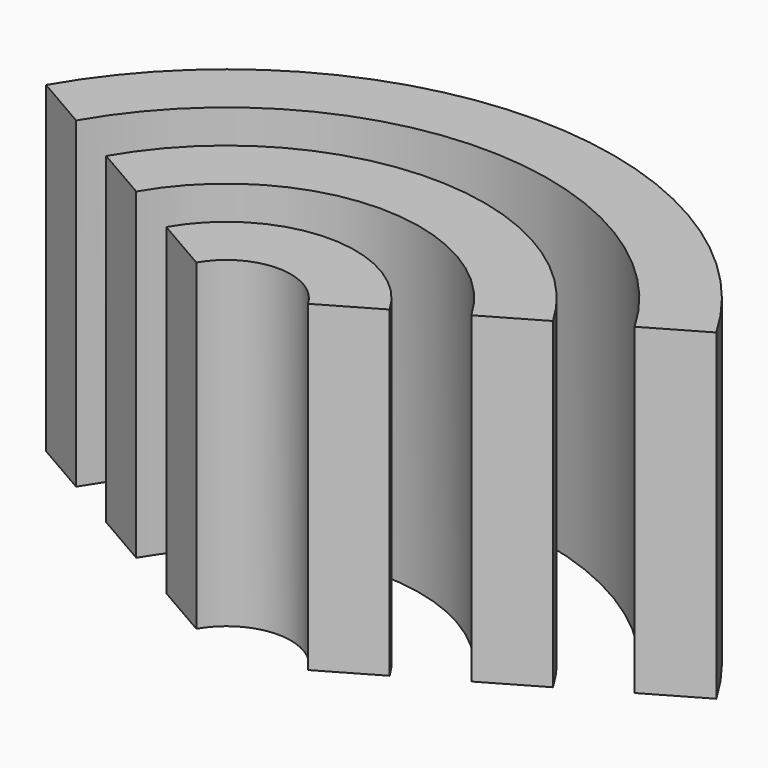
from build123d import *

# Parameters (mm, degrees)
CYLINDER020_W               = 6
CYLINDER020_H               = 10
CYLINDER020_ANGLE           = 120
CYLINDER020_PLACEMENT_ANGLE = 30
CYLINDER015_W               = 8
CYLINDER015_H               = 10
CYLINDER015_ANGLE           = 120
CYLINDER015_PLACEMENT_ANGLE = 30
CYLINDER018_W               = 2
CYLINDER018_H               = 10
CYLINDER018_ANGLE           = 120
CYLINDER018_PLACEMENT_ANGLE = 30
CYLINDER016_W               = 4
CYLINDER016_H               = 10
CYLINDER016_ANGLE           = 120
CYLINDER016_PLACEMENT_ANGLE = 30
CYLINDER019_W               = 10
CYLINDER019_H               = 10
CYLINDER019_ANGLE           = 120
CYLINDER019_PLACEMENT_ANGLE = 30
CYLINDER017_W               = 12
CYLINDER017_H               = 10
CYLINDER017_ANGLE           = 120
CYLINDER017_PLACEMENT_ANGLE = 30


with BuildPart() as cilindro011:
    # Cylinder020 → Cylinder020 (revolve)
    with BuildSketch(Plane.XZ):
        with Locations((3, 5)):
            Rectangle(CYLINDER020_W, CYLINDER020_H)
    revolve(axis=Axis((0, 0, 0), (0, 0, 1)), revolution_arc=CYLINDER020_ANGLE)


with BuildPart() as cilindro011_1:
    # Cylinder020 placement: moved
    add(cilindro011.part.moved(Location((-30.75, -30, 0))).rotate(Axis((-30.75, -30, 0), (0, 0, 1)), CYLINDER020_PLACEMENT_ANGLE))


with BuildPart() as obj1:
    # Cylinder015 → Cylinder015 (revolve)
    with BuildSketch(Plane.XZ):
        with Locations((4, 5)):
            Rectangle(CYLINDER015_W, CYLINDER015_H)
    revolve(axis=Axis((0, 0, 0), (0, 0, 1)), revolution_arc=CYLINDER015_ANGLE)


with BuildPart() as obj1_1:
    # Cylinder015 placement: moved
    add(obj1.part.moved(Location((-30.75, -30, 0))).rotate(Axis((-30.75, -30, 0), (0, 0, 1)), CYLINDER015_PLACEMENT_ANGLE))

    # Cut005: cut Cilindro011
    add(cilindro011_1.part, mode=Mode.SUBTRACT)


with BuildPart() as cilindro009:
    # Cylinder018 → Cylinder018 (revolve)
    with BuildSketch(Plane.XZ):
        with Locations((1, 5)):
            Rectangle(CYLINDER018_W, CYLINDER018_H)
    revolve(axis=Axis((0, 0, 0), (0, 0, 1)), revolution_arc=CYLINDER018_ANGLE)


with BuildPart() as cilindro009_1:
    # Cylinder018 placement: moved
    add(cilindro009.part.moved(Location((-30.75, -30, 0))).rotate(Axis((-30.75, -30, 0), (0, 0, 1)), CYLINDER018_PLACEMENT_ANGLE))


with BuildPart() as obj2:
    # Cylinder016 → Cylinder016 (revolve)
    with BuildSketch(Plane.XZ):
        with Locations((2, 5)):
            Rectangle(CYLINDER016_W, CYLINDER016_H)
    revolve(axis=Axis((0, 0, 0), (0, 0, 1)), revolution_arc=CYLINDER016_ANGLE)


with BuildPart() as obj2_1:
    # Cylinder016 placement: moved
    add(obj2.part.moved(Location((-30.75, -30, 0))).rotate(Axis((-30.75, -30, 0), (0, 0, 1)), CYLINDER016_PLACEMENT_ANGLE))

    # Cut007: cut Cilindro009
    add(cilindro009_1.part, mode=Mode.SUBTRACT)


with BuildPart() as cilindro010:
    # Cylinder019 → Cylinder019 (revolve)
    with BuildSketch(Plane.XZ):
        with Locations((5, 5)):
            Rectangle(CYLINDER019_W, CYLINDER019_H)
    revolve(axis=Axis((0, 0, 0), (0, 0, 1)), revolution_arc=CYLINDER019_ANGLE)


with BuildPart() as cilindro010_1:
    # Cylinder019 placement: moved
    add(cilindro010.part.moved(Location((-30.75, -30, 0))).rotate(Axis((-30.75, -30, 0), (0, 0, 1)), CYLINDER019_PLACEMENT_ANGLE))


with BuildPart() as fusion001:
    # Cylinder017 → Cylinder017 (revolve)
    with BuildSketch(Plane.XZ):
        with Locations((6, 5)):
            Rectangle(CYLINDER017_W, CYLINDER017_H)
    revolve(axis=Axis((0, 0, 0), (0, 0, 1)), revolution_arc=CYLINDER017_ANGLE)


with BuildPart() as fusion001_1:
    # Cylinder017 placement: moved
    add(fusion001.part.moved(Location((-30.75, -30, 0))).rotate(Axis((-30.75, -30, 0), (0, 0, 1)), CYLINDER017_PLACEMENT_ANGLE))

    # Cut006: cut Cilindro010
    add(cilindro010_1.part, mode=Mode.SUBTRACT)

    # Fusion001: union obj1, obj2
    add(obj1_1.part)
    add(obj2_1.part)


with BuildPart() as fusion001_2:
    # Fusion001 placement: moved
    add(fusion001_1.part.moved(Location((0, 0, -6))))


solid = fusion001_2.part
